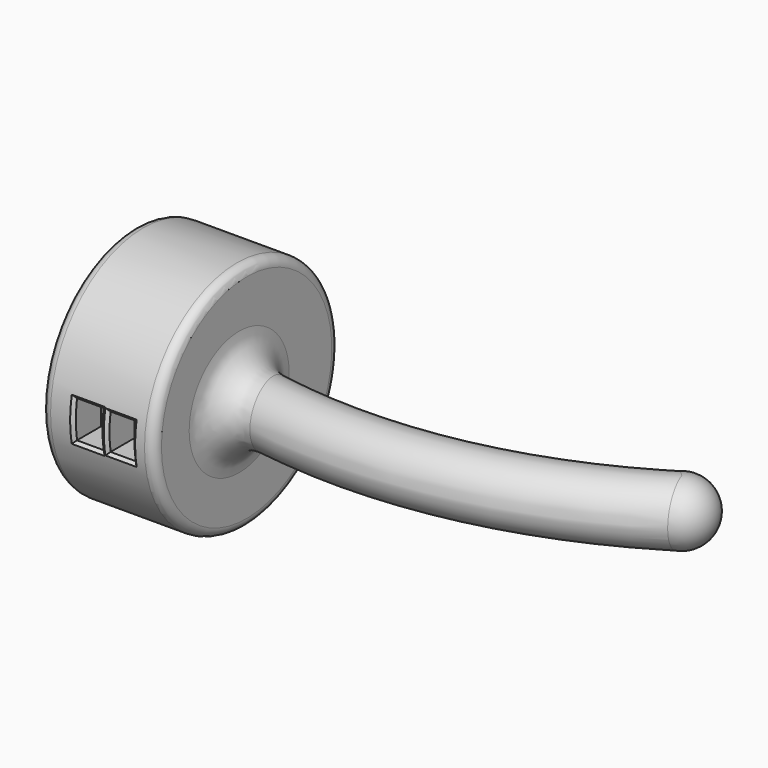
from build123d import *

# Parameters (mm, degrees)
SKETCH051_AS_DRAWN_W                      = 8.5
SKETCH051_AS_DRAWN_H                      = 11.85
EXTRUDE032_DEPTH                          = 11
EXTRUDE032_ONTO_SKETCH051_ROLL_ANGLE      = 90
EXTRUDE032_ONTO_SKETCH051_PLACEMENT_ANGLE = 180
SKETCH050_AS_DRAWN_W                      = 8
SKETCH050_AS_DRAWN_H                      = 11.35
EXTRUDE031_DEPTH                          = 11
EXTRUDE031_ONTO_SKETCH050_ROLL_ANGLE      = 90
EXTRUDE031_ONTO_SKETCH050_PLACEMENT_ANGLE = 180
FILLET005_R                               = 2
SKETCH055_R                               = 37
EXTRUDE033_DEPTH                          = 36
FILLET006_R                               = 3
CHAMFER_SIZE                              = 1
SKETCH023_R                               = 10
FILLET007_R                               = 10


with BuildPart() as charge_hole_plug:
    # Sketch051 as drawn → Extrude032 (new)
    with BuildSketch(Plane.XY):
        with Locations((17.5, 0)):
            Rectangle(SKETCH051_AS_DRAWN_W, SKETCH051_AS_DRAWN_H)
    extrude(amount=EXTRUDE032_DEPTH)


with BuildPart() as charge_hole_plug_1:
    # Extrude032 onto Sketch051 roll: moved
    add(charge_hole_plug.part.rotate(Axis((0, 0, 0), (1, 0, 0)), EXTRUDE032_ONTO_SKETCH051_ROLL_ANGLE))


with BuildPart() as charge_hole_plug_2:
    # Extrude032 onto Sketch051 placement: moved
    add(charge_hole_plug_1.part.moved(Location((0, -37, 0))).rotate(Axis((0, -37, 0), (0, 0, 1)), EXTRUDE032_ONTO_SKETCH051_PLACEMENT_ANGLE))


with BuildPart() as hacker_hole_plug:
    # Sketch050 as drawn → Extrude031 (new)
    with BuildSketch(Plane.XY):
        with Locations((7, 0)):
            Rectangle(SKETCH050_AS_DRAWN_W, SKETCH050_AS_DRAWN_H)
    extrude(amount=EXTRUDE031_DEPTH)


with BuildPart() as hacker_hole_plug_1:
    # Extrude031 onto Sketch050 roll: moved
    add(hacker_hole_plug.part.rotate(Axis((0, 0, 0), (1, 0, 0)), EXTRUDE031_ONTO_SKETCH050_ROLL_ANGLE))


with BuildPart() as hacker_hole_plug_2:
    # Extrude031 onto Sketch050 placement: moved
    add(hacker_hole_plug_1.part.moved(Location((0, -37, 0))).rotate(Axis((0, -37, 0), (0, 0, 1)), EXTRUDE031_ONTO_SKETCH050_PLACEMENT_ANGLE))


with BuildPart() as fillet005:
    # Sketch052 → Loft section 0
    with BuildSketch(Plane(origin=(-32, 0, 0), x_dir=(0, -1, 0), z_dir=(-1, 0, 0))):
        with BuildLine():
            Line((-9, -18.307262), (3, -18.307262))
            ThreePointArc((5, -20.307262), (4.414214, -18.893049), (3, -18.307262))
            Line((5, -20.307262), (5, -32.307262))
            ThreePointArc((3, -34.307262), (4.414214, -33.721476), (5, -32.307262))
            Line((3, -34.307262), (-9, -34.307262))
            ThreePointArc((-11, -32.307262), (-10.414214, -33.721476), (-9, -34.307262))
            Line((-11, -32.307262), (-11, -20.307262))
            ThreePointArc((-9, -18.307262), (-10.414214, -18.893049), (-11, -20.307262))
        make_face()
    # Sketch054 → Loft section 1
    with BuildSketch(Plane(origin=(-34, 0, 0), x_dir=(0, -1, 0), z_dir=(-1, 0, 0))):
        with BuildLine():
            Line((-7, -20.161882), (1, -20.161882))
            ThreePointArc((3, -22.161882), (2.414214, -20.747668), (1, -20.161882))
            Line((3, -22.161882), (3, -30.161882))
            ThreePointArc((1, -32.161882), (2.414214, -31.576096), (3, -30.161882))
            Line((1, -32.161882), (-7, -32.161882))
            ThreePointArc((-9, -30.161882), (-8.414214, -31.576096), (-7, -32.161882))
            Line((-9, -30.161882), (-9, -22.161882))
            ThreePointArc((-7, -20.161882), (-8.414214, -20.747668), (-9, -22.161882))
        make_face()
    loft()

    # Fillet005
    fillet005_edges = [fillet005.edges().sort_by_distance(p)[0] for p in [
        (-34, 9, -26.161882),
        (-34, 3, -20.161882),
        (-34, -2.414214, -20.747668),
        (-34, -2.414214, -31.576096),
        (-34, 3, -32.161882),
    ]]
    fillet(fillet005_edges, radius=FILLET005_R)


with BuildPart() as part_mirroring:
    # Part__Mirroring: instance of Fillet005
    add(fillet005.part.mirror(Plane(origin=(0, 0, 0), x_dir=(0, 1, 0), z_dir=(0, 0, 1))))


with BuildPart() as obj1:
    # Sketch055 → Extrude033 (new body)
    with BuildSketch(Plane(origin=(4, 0, 0), x_dir=(0, -1, 0), z_dir=(-1, 0, 0))):
        Circle(SKETCH055_R)
    extrude(amount=EXTRUDE033_DEPTH)

    # Fillet006
    fillet006_edges = [obj1.edges().sort_by_distance(p)[0] for p in [
        (4, 37, 0),
        (-32, 37, 0),
    ]]
    fillet(fillet006_edges, radius=FILLET006_R)

    # Fusion014: union Part__Mirroring, Fillet005
    add(part_mirroring.part)
    add(fillet005.part)

    # Cut015: cut Hacker Hole Plug
    add(hacker_hole_plug_2.part, mode=Mode.SUBTRACT)

    # Cut016: cut Charge Hole Plug
    add(charge_hole_plug_2.part, mode=Mode.SUBTRACT)

    # Chamfer
    chamfer_edges = [obj1.edges().sort_by_distance(p)[0] for p in [
        (-3, -36.890387, -2.845931),
        (-7, -36.562199, -5.675),
        (-11, -36.890387, -2.845931),
        (-13.25, -36.880437, -2.972104),
        (-17.5, -36.522519, -5.925),
        (-21.75, -36.880437, -2.972104),
        (-21.75, -36.880437, 2.972104),
        (-17.5, -36.522519, 5.925),
        (-13.25, -36.880437, 2.972104),
        (-11, -36.890387, 2.845931),
        (-7, -36.562199, 5.675),
        (-3, -36.890387, 2.845931),
    ]]
    chamfer(chamfer_edges, length=CHAMFER_SIZE)


with BuildPart() as sweep_body:
    # Sweep: sweep along a path in Sketch
    with BuildLine(Plane.XY) as sweep_path:
        ThreePointArc((0, 0), (65.583227, -3.22849), (127, 20))
    # Sketch023 → Sweep (sweep)
    with BuildSketch(Plane(origin=(0, 0, 0), x_dir=(0, -1, 0), z_dir=(-1, 0, 0))):
        Circle(SKETCH023_R)
    sweep(path=sweep_path.line)


with BuildPart() as obj2:
    # Sphere → Sphere (revolve)
    with BuildSketch(Plane(origin=(127, 20, 0), x_dir=(1, 0, 0), z_dir=(0, -1, 0))):
        with BuildLine():
            ThreePointArc((0, -10), (10, 0), (0, 10))
            Line((0, 10), (0, -10))
        make_face()
    revolve(axis=Axis((127, 20, 0), (0, 0, 1)))

    # Fusion015: union Sweep body
    add(sweep_body.part)

    # Fusion016: union obj1
    add(obj1.part)

    # Fillet007
    fillet007_edges = [obj2.edges().sort_by_distance(p)[0] for p in [
        (4, 8.946411, 0),
    ]]
    fillet(fillet007_edges, radius=FILLET007_R)


solid = obj2.part
